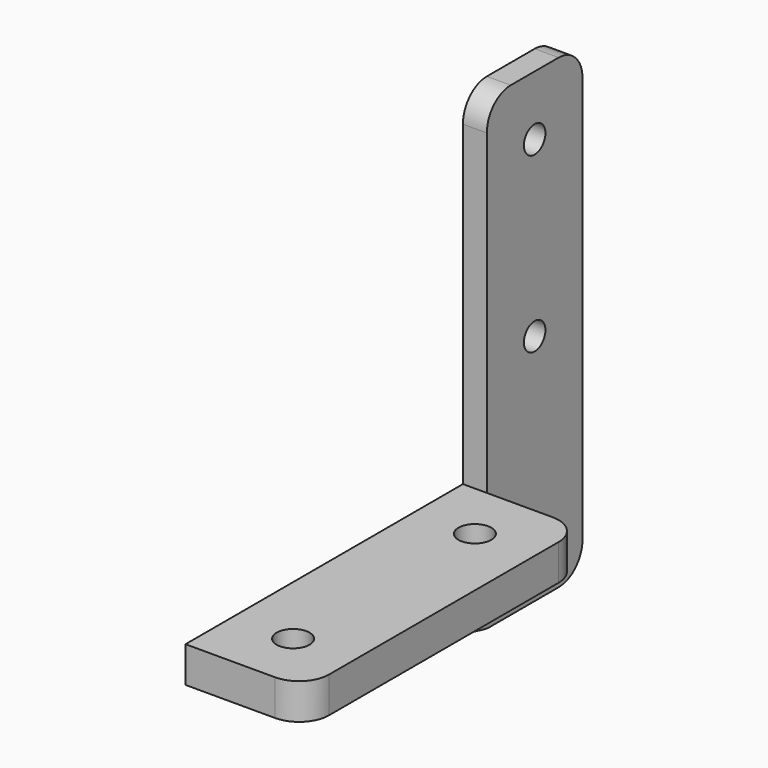
from build123d import *

# Parameters (mm, degrees)
F0_W           = 58
F0_H           = 6
F2_DEPTH       = 20
F3_DEPTH       = 4
F5_D           = 5.5
F5_DEPTH       = 15
F5_CSINK_D     = 11.2
F5_CSINK_ANGLE = 90
F5_TIP         = 1.6523667023
F6_R           = 5
F7_D           = 4.5
F7_DEPTH       = 15
F7_TIP         = 1.3519363928


with BuildPart() as f2:
    # F0 (on Right) → F2 (new body)
    with BuildSketch(Plane.YZ):
        with Locations((0, -3)):
            Rectangle(F0_W, F0_H)
    extrude(amount=F2_DEPTH)

    # F1 (on Right) → F3 (join)
    with BuildSketch(Plane.YZ):
        Polygon((-29, 0), (-29, -6), (29, -20), (49, -20), (49, 58), (29, 58), (29, 0), align=None)
    extrude(amount=F3_DEPTH)

    # F5
    with Locations(Plane(origin=(0, 0, -6), x_dir=(1, 0, 0), z_dir=(0, 0, -1))):
        with Locations((10, -19), (10, 19)):
            CounterSinkHole(F5_D / 2, F5_CSINK_D / 2, depth=F5_DEPTH, counter_sink_angle=F5_CSINK_ANGLE)
            with Locations((0, 0, -(F5_DEPTH + F5_TIP / 2))):  # 118° drill point
                Cone(0, F5_D / 2, F5_TIP, mode=Mode.SUBTRACT)

    # F6
    f6_edges = [f2.edges().sort_by_distance(p)[0] for p in [
        (20, -29, -3),
        (20, 29, -3),
        (2, 29, 58),
        (2, 49, 58),
        (2, 49, -20),
        (2, 29, -20),
    ]]
    fillet(f6_edges, radius=F6_R)

    # F7
    with Locations(Plane(origin=(0, 0, 0), x_dir=(0, 1, 0), z_dir=(-1, 0, 0))):
        with Locations((39, -48), (39, -19), (39, 10)):
            Hole(F7_D / 2, depth=F7_DEPTH)
            with Locations((0, 0, -(F7_DEPTH + F7_TIP / 2))):  # 118° drill point
                Cone(0, F7_D / 2, F7_TIP, mode=Mode.SUBTRACT)


solid = f2.part
